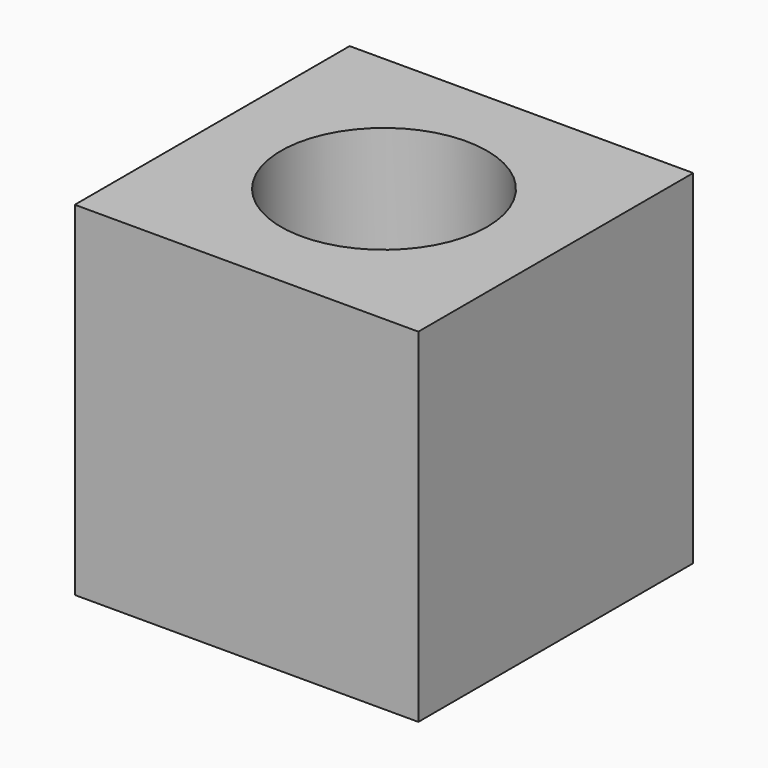
from build123d import *

# Parameters (mm, degrees)
CYLINDER_R     = 3
CYLINDER_DEPTH = 10
BOX_W          = 10
BOX_H          = 10
BOX_DEPTH      = 10


with BuildPart() as cylinder:
    # Cylinder → Cylinder (new body)
    with BuildSketch(Plane(origin=(5, 5, 5), x_dir=(1, 0, 0), z_dir=(0, 0, 1))):
        Circle(CYLINDER_R)
    extrude(amount=CYLINDER_DEPTH)


with BuildPart() as cut:
    # Box → Box (new body)
    with BuildSketch(Plane.XY):
        with Locations((5, 5)):
            Rectangle(BOX_W, BOX_H)
    extrude(amount=BOX_DEPTH)

    # Cut: cut Cylinder
    add(cylinder.part, mode=Mode.SUBTRACT)


solid = cut.part
